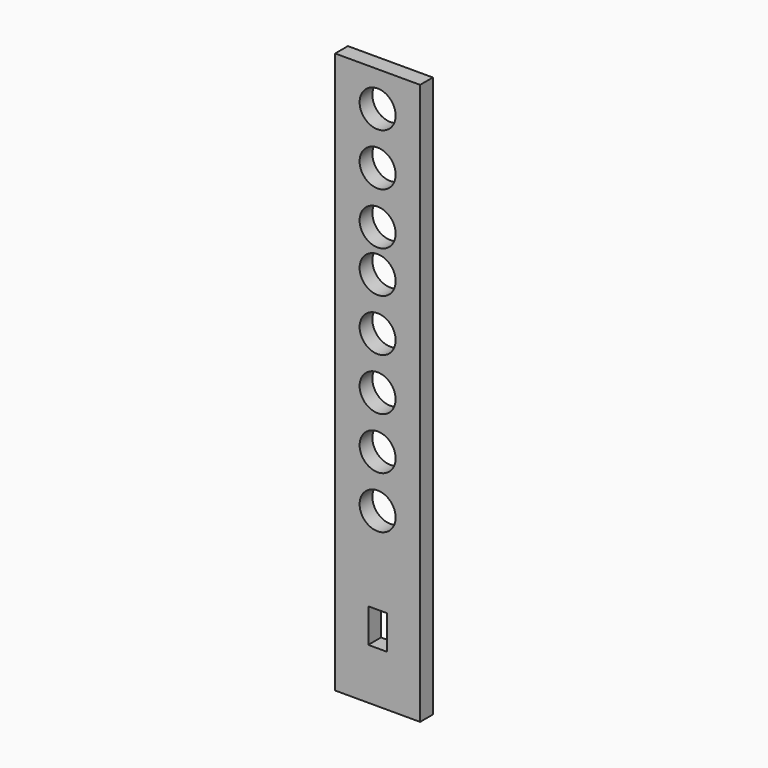
from build123d import *

# Parameters (mm, degrees)
F0_W     = 63.5
F0_H     = 38.862
F0_H_2   = 26.162
F0_H_3   = 12.7
F1_DEPTH = 11.938
F2_W     = 13.97
F2_H     = 25.4
F3_DEPTH = 25.4
F4_W     = 63.5
F4_H     = 11.938
F5_DEPTH = 11.938


with BuildPart() as f1:
    # F0 (on Front) → F1 (new body)
    with BuildSketch(Plane.XZ):
        with BuildLine():
            Line((-70.517269, 199.179671), (-70.517269, 173.017671))
            Line((-70.517269, 173.017671), (-52.229269, 173.017671))
            ThreePointArc((-52.229269, 173.017671), (-38.767269, 186.479671), (-25.305269, 173.017671))
            Line((-25.305269, 173.017671), (-7.017269, 173.017671))
            Line((-7.017269, 173.017671), (-7.017269, 199.179671))
            Line((-7.017269, 199.179671), (-70.517269, 199.179671))
        make_face()
        with BuildLine():
            Line((-70.517269, 173.017671), (-70.517269, 134.155671))
            Line((-70.517269, 134.155671), (-52.229269, 134.155671))
            ThreePointArc((-52.229269, 134.155671), (-38.767269, 147.617671), (-25.305269, 134.155671))
            Line((-25.305269, 134.155671), (-7.017269, 134.155671))
            Line((-7.017269, 134.155671), (-7.017269, 173.017671))
            Line((-7.017269, 173.017671), (-25.305269, 173.017671))
            ThreePointArc((-25.305269, 173.017671), (-38.767269, 159.555671), (-52.229269, 173.017671))
            Line((-52.229269, 173.017671), (-70.517269, 173.017671))
        make_face()
        with BuildLine():
            Line((-70.517269, 134.155671), (-70.517269, 95.293671))
            Line((-70.517269, 95.293671), (-52.229269, 95.293671))
            ThreePointArc((-52.229269, 95.293671), (-38.767269, 108.755671), (-25.305269, 95.293671))
            Line((-25.305269, 95.293671), (-7.017269, 95.293671))
            Line((-7.017269, 95.293671), (-7.017269, 134.155671))
            Line((-7.017269, 134.155671), (-25.305269, 134.155671))
            ThreePointArc((-25.305269, 134.155671), (-38.767269, 120.693671), (-52.229269, 134.155671))
            Line((-52.229269, 134.155671), (-70.517269, 134.155671))
        make_face()
        with BuildLine():
            Line((-70.517269, 95.293671), (-70.517269, 64.051671))
            Line((-70.517269, 64.051671), (-52.229269, 64.051671))
            ThreePointArc((-52.229269, 64.051671), (-38.767269, 77.513671), (-25.305269, 64.051671))
            Line((-25.305269, 64.051671), (-7.017269, 64.051671))
            Line((-7.017269, 64.051671), (-7.017269, 95.293671))
            Line((-7.017269, 95.293671), (-25.305269, 95.293671))
            ThreePointArc((-25.305269, 95.293671), (-38.767269, 81.831671), (-52.229269, 95.293671))
            Line((-52.229269, 95.293671), (-70.517269, 95.293671))
        make_face()
        with BuildLine():
            Line((-70.517269, 64.051671), (-70.517269, 25.189671))
            Line((-70.517269, 25.189671), (-52.229269, 25.189671))
            ThreePointArc((-52.229269, 25.189671), (-38.767269, 38.651671), (-25.305269, 25.189671))
            Line((-25.305269, 25.189671), (-7.017269, 25.189671))
            Line((-7.017269, 25.189671), (-7.017269, 64.051671))
            Line((-7.017269, 64.051671), (-25.305269, 64.051671))
            ThreePointArc((-25.305269, 64.051671), (-38.767269, 50.589671), (-52.229269, 64.051671))
            Line((-52.229269, 64.051671), (-70.517269, 64.051671))
        make_face()
        with BuildLine():
            Line((-70.517269, 25.189671), (-70.517269, -13.672329))
            Line((-70.517269, -13.672329), (-52.229269, -13.672329))
            ThreePointArc((-52.229269, -13.672329), (-38.767269, -0.210329), (-25.305269, -13.672329))
            Line((-25.305269, -13.672329), (-7.017269, -13.672329))
            Line((-7.017269, -13.672329), (-7.017269, 25.189671))
            Line((-7.017269, 25.189671), (-25.305269, 25.189671))
            ThreePointArc((-25.305269, 25.189671), (-38.767269, 11.727671), (-52.229269, 25.189671))
            Line((-52.229269, 25.189671), (-70.517269, 25.189671))
        make_face()
        with BuildLine():
            Line((-70.517269, -13.672329), (-70.517269, -52.534329))
            Line((-70.517269, -52.534329), (-52.229269, -52.534329))
            ThreePointArc((-52.229269, -52.534329), (-38.767269, -39.072329), (-25.305269, -52.534329))
            Line((-25.305269, -52.534329), (-7.017269, -52.534329))
            Line((-7.017269, -52.534329), (-7.017269, -13.672329))
            Line((-7.017269, -13.672329), (-25.305269, -13.672329))
            ThreePointArc((-25.305269, -13.672329), (-38.767269, -27.134329), (-52.229269, -13.672329))
            Line((-52.229269, -13.672329), (-70.517269, -13.672329))
        make_face()
        with BuildLine():
            Line((-70.517269, -52.534329), (-70.517269, -91.396329))
            Line((-70.517269, -91.396329), (-52.229269, -91.396329))
            ThreePointArc((-52.229269, -91.396329), (-38.767269, -77.934329), (-25.305269, -91.396329))
            Line((-25.305269, -91.396329), (-7.017269, -91.396329))
            Line((-7.017269, -91.396329), (-7.017269, -52.534329))
            Line((-7.017269, -52.534329), (-25.305269, -52.534329))
            ThreePointArc((-25.305269, -52.534329), (-38.767269, -65.996329), (-52.229269, -52.534329))
            Line((-52.229269, -52.534329), (-70.517269, -52.534329))
        make_face()
        with BuildLine():
            Line((-70.517269, -91.396329), (-70.517269, -130.258329))
            Line((-70.517269, -130.258329), (-7.017269, -130.258329))
            Line((-7.017269, -130.258329), (-7.017269, -91.396329))
            Line((-7.017269, -91.396329), (-25.305269, -91.396329))
            ThreePointArc((-25.305269, -91.396329), (-38.767269, -104.858329), (-52.229269, -91.396329))
            Line((-52.229269, -91.396329), (-70.517269, -91.396329))
        make_face()
        with Locations((-38.767269, -149.689329)):
            Rectangle(F0_W, F0_H)
        with Locations((-38.767269, -182.201329)):
            Rectangle(F0_W, F0_H_2)
        with Locations((-38.767269, -201.632329)):
            Rectangle(F0_W, F0_H_3)
    extrude(amount=F1_DEPTH)

    # F2 (on face) → F3 (cut)
    with BuildSketch(Plane(origin=(0, 0, 0), x_dir=(-1, 0, 0), z_dir=(0, 1, 0))):
        with Locations((38.767269, -169.120329)):
            Rectangle(F2_W, F2_H)
    extrude(amount=-F3_DEPTH, mode=Mode.SUBTRACT)

    # F4 (on face) → F5 (join)
    with BuildSketch(Plane(origin=(0, 0, -207.982329), x_dir=(1, 0, 0), z_dir=(0, 0, -1))):
        with Locations((-38.767269, 5.969)):
            Rectangle(F4_W, F4_H)
    extrude(amount=F5_DEPTH)


solid = f1.part
